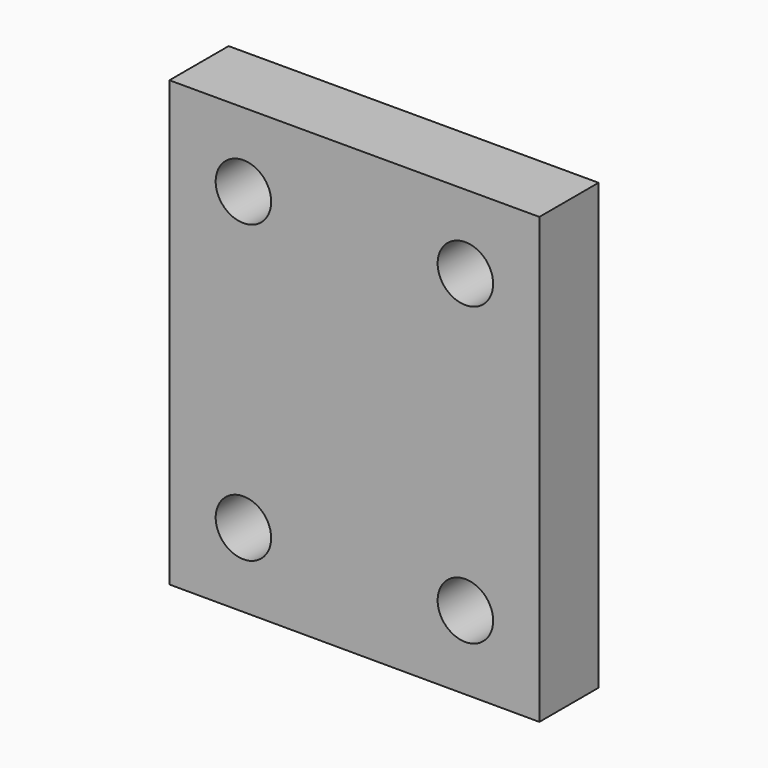
from build123d import *

# Parameters (mm, degrees)
F0_R     = 4.7625
F1_DEPTH = 12.7


with BuildPart() as f1:
    # F0 (on Front) → F1 (new body)
    with BuildSketch(Plane.XZ):
        Polygon((-12.7, -12.7), (50.8, -12.81299), (50.8, 63.5), (-12.7, 63.5), align=None)
        Circle(F0_R, mode=Mode.SUBTRACT)
        with Locations((38.1, -0.11299)):
            Circle(F0_R, mode=Mode.SUBTRACT)
        with Locations((0, 50.8)):
            Circle(F0_R, mode=Mode.SUBTRACT)
        with Locations((38.1, 50.8)):
            Circle(F0_R, mode=Mode.SUBTRACT)
    extrude(amount=F1_DEPTH)


solid = f1.part
